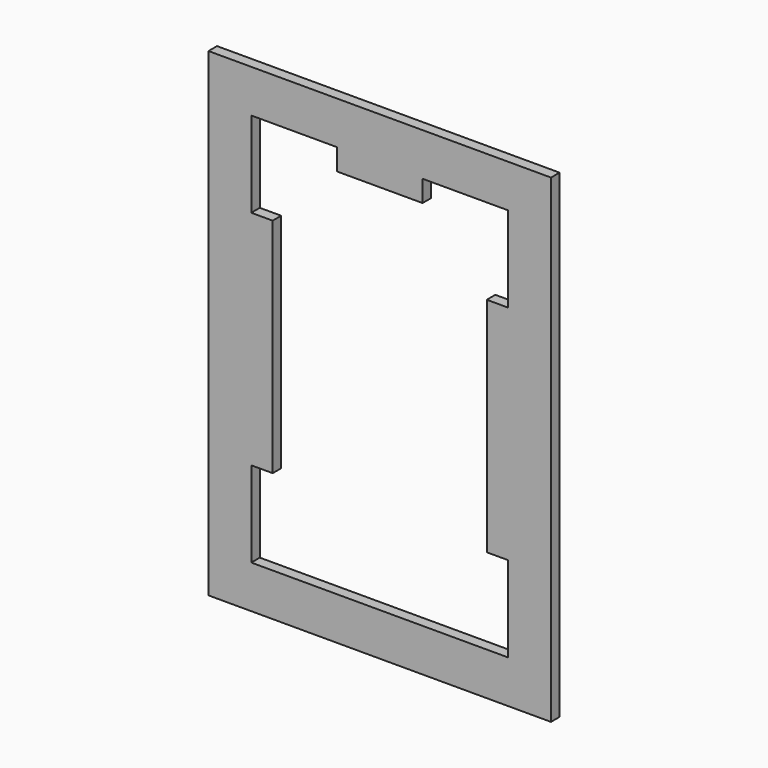
from build123d import *

# Parameters (mm, degrees)
F1_DEPTH = 6.35


with BuildPart() as f1:
    # F0 (on Front) → F1 (new body)
    with BuildSketch(Plane.XZ):
        Polygon((76.2, -129.44348), (101.6, -129.44348), (101.6, 129.44348), (-101.6, 129.44348), (-101.6, -129.44348), (-76.2, -129.44348), (-76.2, -78.64348), (-63.5, -78.64348), (-63.5, 53.24348), (-76.2, 53.24348), (-76.2, 104.04348), (-25.4, 104.04348), (-25.4, 91.34348), (25.4, 91.34348), (25.4, 104.04348), (76.2, 104.04348), (76.2, 53.24348), (63.5, 53.24348), (63.5, -78.64348), (76.2, -78.64348), align=None)
        Polygon((101.6, -154.84348), (101.6, -129.44348), (76.2, -129.44348), (63.5, -129.44348), (-63.5, -129.44348), (-76.2, -129.44348), (-101.6, -129.44348), (-101.6, -154.84348), align=None)
    extrude(amount=F1_DEPTH)


solid = f1.part
